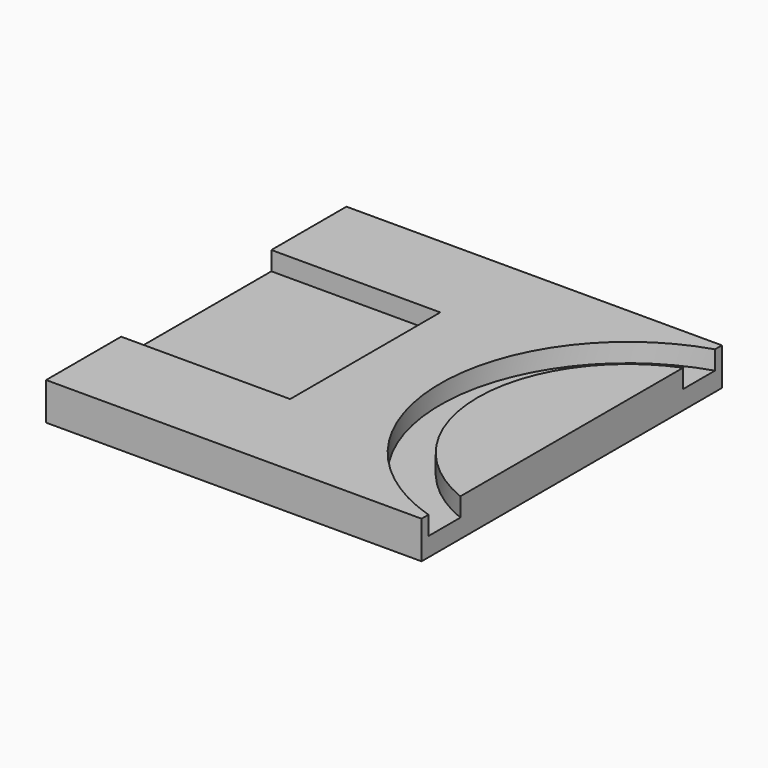
from build123d import *

# Parameters (mm, degrees)
SKETCH_W      = 100
SKETCH_H      = 100
PAD_DEPTH     = 10
SKETCH001_R   = 50
SKETCH001_R_2 = 40
SKETCH001_W   = 50
SKETCH001_H   = 50
POCKET_DEPTH  = 5


with BuildPart() as part:
    # Sketch → Pad (new body)
    with BuildSketch(Plane.XY):
        Rectangle(SKETCH_W, SKETCH_H)
    extrude(amount=PAD_DEPTH)

    # Sketch001 (on Face6 of Pad) → Pocket (cut)
    with BuildSketch(Plane.XY.offset(10)):
        with Locations((65, 0)):
            Circle(SKETCH001_R)
        with Locations((65, 0)):
            Circle(SKETCH001_R_2, mode=Mode.SUBTRACT)
        with Locations((-30, 0)):
            Rectangle(SKETCH001_W, SKETCH001_H)
    extrude(amount=-POCKET_DEPTH, mode=Mode.SUBTRACT)


solid = part.part
